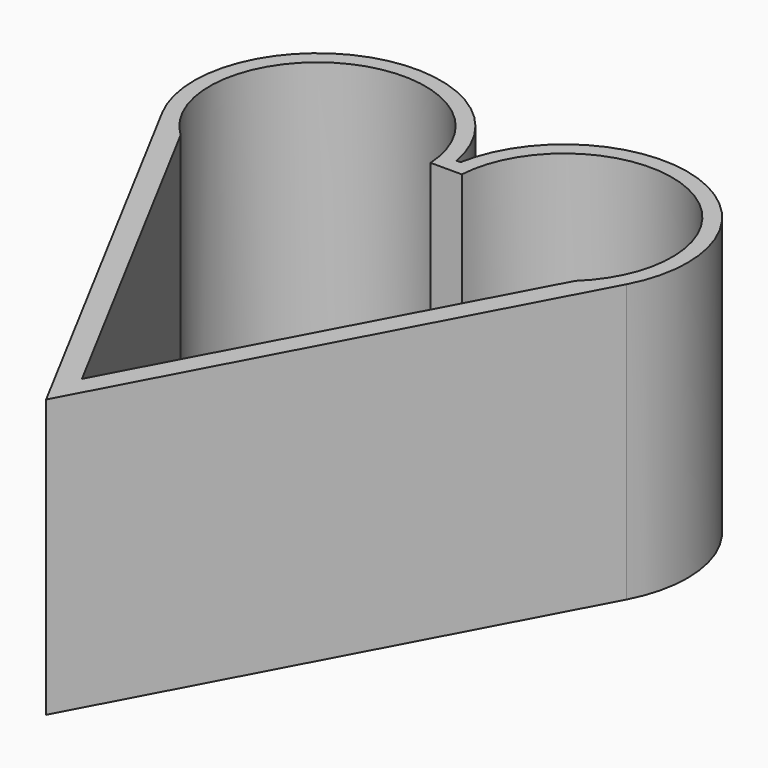
from build123d import *

# Parameters (mm, degrees)
F1_DEPTH = 3.175
F3_DEPTH = 25.4


with BuildPart() as f1:
    # F0 (on Top) → F1 (new body)
    with BuildSketch(Plane.XY):
        with BuildLine():
            Line((0.205414, 53.074933), (-0.205414, 53.074933))
            ThreePointArc((-0.205414, 53.074933), (-16.875716, 62.79389), (-23.905882, 44.823529))
            Line((-23.905882, 44.823529), (0, 0))
            Line((0, 0), (23.905882, 44.823529))
            ThreePointArc((23.905882, 44.823529), (16.875716, 62.79389), (0.205414, 53.074933))
        make_face()
    extrude(amount=F1_DEPTH)

    # F2 (on face) → F3 (join)
    with BuildSketch(Plane.XY.offset(3.175)):
        with BuildLine():
            ThreePointArc((23.905882, 44.823529), (16.875716, 62.79389), (0.205414, 53.074933))
            Line((0.205414, 53.074933), (-0.205414, 53.074933))
            ThreePointArc((-0.205414, 53.074933), (-16.875716, 62.79389), (-23.905882, 44.823529))
            Line((-23.905882, 44.823529), (0, 0))
            Line((0, 0), (23.905882, 44.823529))
        make_face()
        with BuildLine():
            ThreePointArc((-20.315473, 42.707274), (-17.421546, 60.859556), (-1.608783, 51.487433))
            Line((-1.608783, 51.487433), (1.608783, 51.487433))
            ThreePointArc((1.608783, 51.487433), (17.421546, 60.859556), (20.315473, 42.707274))
            Line((20.315473, 42.707274), (0, 4.615761))
            Line((0, 4.615761), (-20.315473, 42.707274))
        make_face(mode=Mode.SUBTRACT)
    extrude(amount=F3_DEPTH)


solid = f1.part
